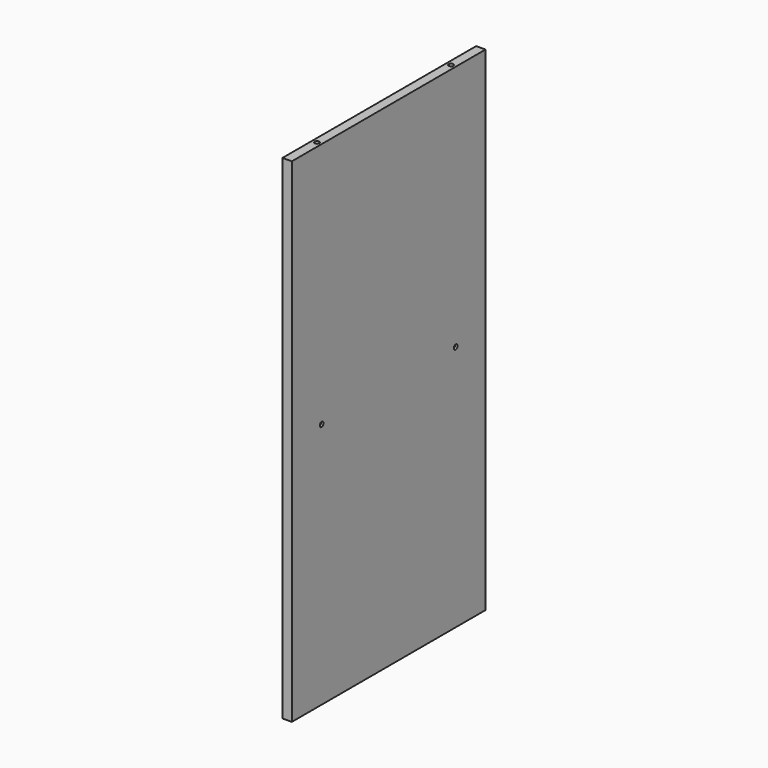
from build123d import *

# Parameters (mm, degrees)
F0_W     = 12.7
F0_H     = 330.2
F1_DEPTH = 673.1
F2_R     = 3.175
F3_DEPTH = 9.525
F4_R     = 3.175
F5_DEPTH = 9.525
F6_R     = 3.175
F8_DEPTH = 3.175
F7_R     = 3.175
F9_DEPTH = 3.175


with BuildPart() as f1:
    # F0 (on Top) → F1 (new body)
    with BuildSketch(Plane.XY):
        with Locations((6.35, 165.1)):
            Rectangle(F0_W, F0_H)
    extrude(amount=F1_DEPTH)

    # F2 (on face) → F3 (cut)
    with BuildSketch(Plane(origin=(0, 0, 0), x_dir=(1, 0, 0), z_dir=(0, 0, -1))):
        with Locations((6.35, -50.8)):
            Circle(F2_R)
        with Locations((6.35, -279.4)):
            Circle(F2_R)
    extrude(amount=-F3_DEPTH, mode=Mode.SUBTRACT)

    # F4 (on face) → F5 (cut)
    with BuildSketch(Plane.XY.offset(673.1)):
        with Locations((6.35, 279.4)):
            Circle(F4_R)
        with Locations((6.35, 50.8)):
            Circle(F4_R)
    extrude(amount=-F5_DEPTH, mode=Mode.SUBTRACT)

    # F6 (on face) → F8 (cut)
    with BuildSketch(Plane(origin=(0, 0, 0), x_dir=(0, -1, 0), z_dir=(-1, 0, 0))):
        with Locations((-279.4, 336.55)):
            Circle(F6_R)
        with Locations((-50.8, 336.55)):
            Circle(F6_R)
    extrude(amount=-F8_DEPTH, mode=Mode.SUBTRACT)

    # F7 (on face) → F9 (cut)
    with BuildSketch(Plane.YZ.offset(12.7)):
        with Locations((50.8, 336.55)):
            Circle(F7_R)
        with Locations((279.4, 336.55)):
            Circle(F7_R)
    extrude(amount=-F9_DEPTH, mode=Mode.SUBTRACT)


solid = f1.part
